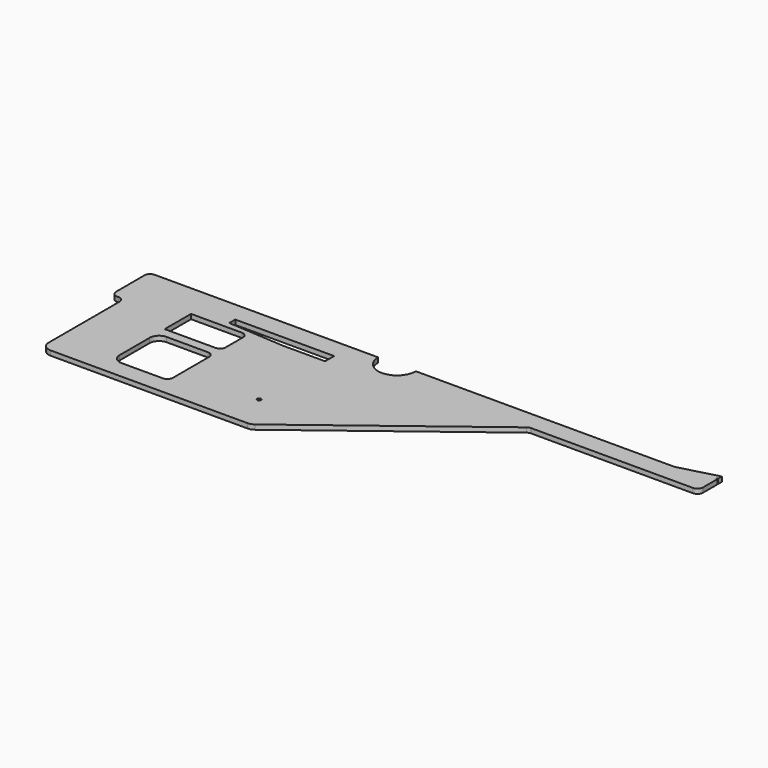
from build123d import *

# Parameters (mm, degrees)
F0_R     = 2
F1_DEPTH = 5


with BuildPart() as f1:
    # F0 (on Top) → F1 (new body)
    with BuildSketch(Plane.XY):
        with BuildLine():
            Line((336.332237, -14.014128), (336.332237, 4.985872))
            Line((336.332237, 4.985872), (335.332237, 4.985872))
            Line((335.332237, 4.985872), (335.332237, 5.985872))
            Line((335.332237, 5.985872), (336.332237, 5.985872))
            Line((336.332237, 5.985872), (336.332237, 10.985872))
            Line((336.332237, 10.985872), (295.000411, -0.014128))
            Line((295.000411, -0.014128), (19.999999, -0.007009))
            ThreePointArc((19.999999, -0.007009), (-7.8e-05, -20), (-19.999999, -0.006852))
            Line((-19.999999, -0.006852), (-257.444166, 0.000174))
            ThreePointArc((-257.444166, 0.000174), (-261.686907, -1.75713), (-263.444321, -5.999826))
            Line((-263.444321, -5.999826), (-263.444321, -43.999671))
            ThreePointArc((-263.444321, -43.999671), (-261.686962, -48.242311), (-257.444321, -49.999671))
            Line((-257.444321, -49.999671), (-256, -49.999671))
            ThreePointArc((-256, -49.999671), (-251.757359, -51.75703), (-250, -55.999671))
            Line((-250, -55.999671), (-250, -149.999671))
            ThreePointArc((-250, -149.999671), (-247.071068, -157.070739), (-240, -159.999671))
            Line((-240, -159.999671), (-30.672852, -159.999671))
            ThreePointArc((-30.672852, -159.999671), (-27.473383, -159.474026), (-24.610271, -157.952351))
            Line((-24.610271, -157.952351), (154.720876, -21.24252))
            ThreePointArc((154.720876, -21.24252), (156.438743, -20.329515), (158.358424, -20.014128))
            Line((158.358424, -20.014128), (330.332237, -20.014128))
            ThreePointArc((330.332237, -20.014128), (334.574878, -18.256769), (336.332237, -14.014128))
        make_face()
        with Locations((-50, -120.711)):
            Circle(F0_R, mode=Mode.SUBTRACT)
        with BuildLine():
            Line((-180, -81), (-136, -81))
            ThreePointArc((-136, -81), (-131.757359, -82.757359), (-130, -87))
            Line((-130, -87), (-130, -135))
            ThreePointArc((-130, -135), (-131.757359, -139.242641), (-136, -141))
            Line((-136, -141), (-180, -141))
            ThreePointArc((-180, -141), (-187.071068, -138.071068), (-190, -131))
            Line((-190, -131), (-190, -91))
            ThreePointArc((-190, -91), (-187.071068, -83.928932), (-180, -81))
        make_face(mode=Mode.SUBTRACT)
        with BuildLine():
            Line((-190, -36), (-136, -36))
            ThreePointArc((-136, -36), (-131.757359, -37.757359), (-130, -42))
            Line((-130, -42), (-130, -65))
            ThreePointArc((-130, -65), (-131.757359, -69.242641), (-136, -71))
            Line((-136, -71), (-190, -71))
            Line((-190, -71), (-190, -36))
        make_face(mode=Mode.SUBTRACT)
        Polygon((-155, -21), (-50, -21), (-50, -33), (-95, -33), (-155, -29), (-155, -25), align=None, mode=Mode.SUBTRACT)
    extrude(amount=F1_DEPTH)


solid = f1.part
